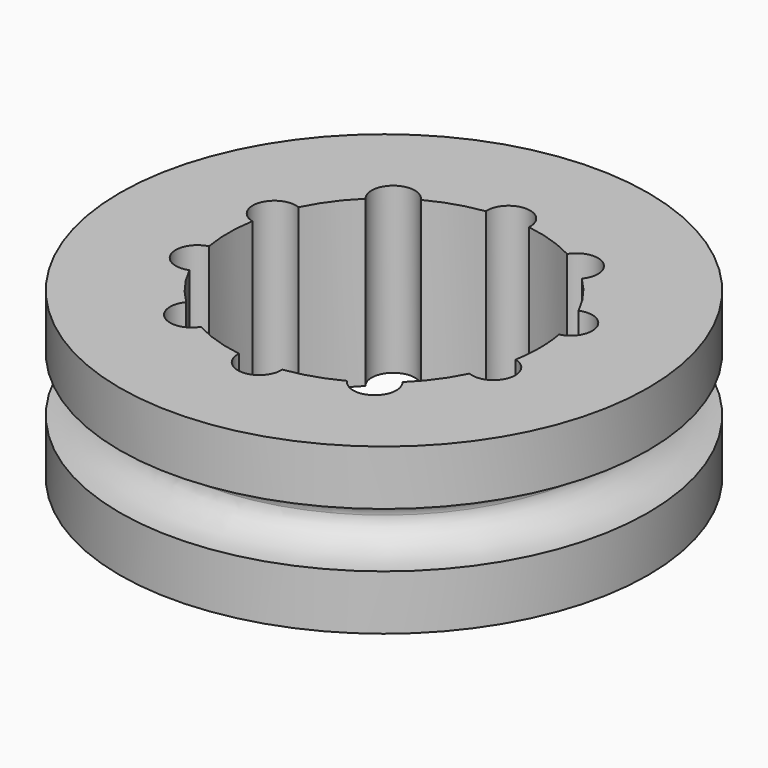
from build123d import *

# Parameters (mm, degrees)
F4_DEPTH = 9.907


with BuildPart() as f1:
    # F0 (on Front) → F1 (revolve)
    with BuildSketch(Plane.XZ):
        Polygon((0, 0), (0, 4.953), (-15.875, 4.953), (-15.875, 1.651), (-13.335, 1.651), (-13.335, 0), align=None)
        with BuildLine():
            Line((-13.335, 1.651), (-15.875, 1.651))
            add(Edge.make_bspline(
                [(-15.875, 1.651), (-14.605, 1.651), (-13.335, 0.8255), (-13.335, 0)],
                knots=[0, 0, 0, 0, 3.0294225522, 3.0294225522, 3.0294225522, 3.0294225522], degree=3))
            Line((-13.335, 0), (-13.335, 1.651))
        make_face()
    revolve(axis=Axis((0, 0, 11.7816049606), (0, 0, 1)))

    # F2: F1 across plane


with BuildPart() as f1_1:
    add(f1.part)
    add(f1.part.mirror(Plane.XY))

    # F3 (on face) → F4 (cut, through all)
    with BuildSketch(Plane.XY.offset(4.953)):
        with BuildLine():
            ThreePointArc((9.2166859434, -1.6310819203), (9.3240277448, -0.8186785842), (9.3599, 0))
            ThreePointArc((9.3599, 0), (9.3240277448, 0.8186785842), (9.2166859434, 1.6310819203))
            ThreePointArc((9.2166859434, 1.6310819203), (7.6654204157, 2.490646073), (8.4151814581, 4.0978590798))
            ThreePointArc((8.4151814581, 4.0978590798), (7.5723181657, 5.5016111829), (6.497729662, 6.7370050653))
            ThreePointArc((6.497729662, 6.7370050653), (4.737490355, 6.520596073), (4.3993636772, 8.2615571925))
            ThreePointArc((4.3993636772, 8.2615571925), (2.8923681657, 8.9017938869), (1.2968614994, 9.2696212577))
            ThreePointArc((1.2968614994, 9.2696212577), (0, 8.0599), (-1.2968614994, 9.2696212577))
            ThreePointArc((-1.2968614994, 9.2696212577), (-2.8923681657, 8.9017938869), (-4.3993636772, 8.2615571925))
            ThreePointArc((-4.3993636772, 8.2615571925), (-4.2520269006, 7.9308416953), (-4.2016111829, 7.5723181657))
            ThreePointArc((-4.2016111829, 7.5723181657), (-5.0571755986, 6.350648402), (-6.497729662, 6.7370050653))
            ThreePointArc((-6.497729662, 6.7370050653), (-7.5723181656, 5.5016111829), (-8.4151814581, 4.0978590798))
            ThreePointArc((-8.4151814581, 4.0978590798), (-7.824158476, 3.6194870839), (-7.6017938869, 2.8923681657))
            ThreePointArc((-7.6017938869, 2.8923681657), (-8.1015938099, 1.8678293246), (-9.2166859434, 1.6310819203))
            ThreePointArc((-9.2166859434, 1.6310819203), (-9.3599, 0), (-9.2166859434, -1.6310819203))
            ThreePointArc((-9.2166859434, -1.6310819203), (-8.1015938099, -1.8678293246), (-7.6017938869, -2.8923681657))
            ThreePointArc((-7.6017938869, -2.8923681657), (-7.824158476, -3.6194870839), (-8.4151814581, -4.0978590798))
            ThreePointArc((-8.4151814581, -4.0978590798), (-7.5723181656, -5.5016111829), (-6.497729662, -6.7370050653))
            ThreePointArc((-6.497729662, -6.7370050653), (-5.0571755986, -6.350648402), (-4.2016111829, -7.5723181657))
            ThreePointArc((-4.2016111829, -7.5723181657), (-4.2520269006, -7.9308416953), (-4.3993636772, -8.2615571925))
            ThreePointArc((-4.3993636772, -8.2615571925), (-2.8923681657, -8.9017938869), (-1.2968614994, -9.2696212577))
            ThreePointArc((-1.2968614994, -9.2696212577), (0, -8.0599), (1.2968614994, -9.2696212577))
            ThreePointArc((1.2968614994, -9.2696212577), (2.8923681657, -8.9017938869), (4.3993636772, -8.2615571925))
            ThreePointArc((4.3993636772, -8.2615571925), (4.737490355, -6.520596073), (6.497729662, -6.7370050653))
            ThreePointArc((6.497729662, -6.7370050653), (7.5723181657, -5.5016111829), (8.4151814581, -4.0978590798))
            ThreePointArc((8.4151814581, -4.0978590798), (7.6654204157, -2.490646073), (9.2166859434, -1.6310819203))
        make_face()
        with BuildLine():
            ThreePointArc((8.4151814581, 4.0978590798), (7.6654204157, 2.490646073), (9.2166859434, 1.6310819203))
            ThreePointArc((9.2166859434, 1.6310819203), (8.9017938869, 2.8923681657), (8.4151814581, 4.0978590798))
        make_face()
        with BuildLine():
            ThreePointArc((8.4151814581, 4.0978590798), (8.9017938869, 2.8923681657), (9.2166859434, 1.6310819203))
            ThreePointArc((9.2166859434, 1.6310819203), (9.9263327279, 2.0921680886), (10.2017938869, 2.8923681657))
            ThreePointArc((10.2017938869, 2.8923681657), (9.6289128051, 3.9700035765), (8.4151814581, 4.0978590798))
        make_face()
        with BuildLine():
            ThreePointArc((10.2017938869, -2.8923681657), (9.9263327279, -2.0921680886), (9.2166859434, -1.6310819203))
            ThreePointArc((9.2166859434, -1.6310819203), (8.9017938869, -2.8923681657), (8.4151814581, -4.0978590798))
            ThreePointArc((8.4151814581, -4.0978590798), (9.6289128051, -3.9700035765), (10.2017938869, -2.8923681657))
        make_face()
        with BuildLine():
            ThreePointArc((8.4151814581, -4.0978590798), (8.9017938869, -2.8923681657), (9.2166859434, -1.6310819203))
            ThreePointArc((9.2166859434, -1.6310819203), (7.6654204157, -2.490646073), (8.4151814581, -4.0978590798))
        make_face()
        with BuildLine():
            ThreePointArc((4.3993636772, 8.2615571925), (4.737490355, 6.520596073), (6.497729662, 6.7370050653))
            ThreePointArc((6.497729662, 6.7370050653), (5.5016111829, 7.5723181657), (4.3993636772, 8.2615571925))
        make_face()
        with BuildLine():
            ThreePointArc((4.3993636772, 8.2615571925), (5.5016111829, 7.5723181657), (6.497729662, 6.7370050653))
            ThreePointArc((6.497729662, 6.7370050653), (6.7232809466, 7.1278825813), (6.8016111829, 7.5723181657))
            ThreePointArc((6.8016111829, 7.5723181657), (5.8601347126, 8.821902448), (4.3993636772, 8.2615571925))
        make_face()
        with BuildLine():
            ThreePointArc((6.8016111829, -7.5723181657), (6.7232809466, -7.1278825813), (6.497729662, -6.7370050653))
            ThreePointArc((6.497729662, -6.7370050653), (5.5016111829, -7.5723181657), (4.3993636772, -8.2615571925))
            ThreePointArc((4.3993636772, -8.2615571925), (5.8601347126, -8.821902448), (6.8016111829, -7.5723181657))
        make_face()
        with BuildLine():
            ThreePointArc((4.3993636772, -8.2615571925), (5.5016111829, -7.5723181657), (6.497729662, -6.7370050653))
            ThreePointArc((6.497729662, -6.7370050653), (4.737490355, -6.520596073), (4.3993636772, -8.2615571925))
        make_face()
        with BuildLine():
            ThreePointArc((-1.2968614994, 9.2696212577), (0, 8.0599), (1.2968614994, 9.2696212577))
            ThreePointArc((1.2968614994, 9.2696212577), (0, 9.3599), (-1.2968614994, 9.2696212577))
        make_face()
        with BuildLine():
            ThreePointArc((-1.2968614994, 9.2696212577), (0, 9.3599), (1.2968614994, 9.2696212577))
            ThreePointArc((1.2968614994, 9.2696212577), (1.2992151379, 9.3147333599), (1.3, 9.3599))
            ThreePointArc((1.3, 9.3599), (-0.0451666401, 10.6591151379), (-1.2968614994, 9.2696212577))
        make_face()
        with BuildLine():
            ThreePointArc((1.3, -9.3599), (1.2992151379, -9.3147333599), (1.2968614994, -9.2696212577))
            ThreePointArc((1.2968614994, -9.2696212577), (0, -9.3599), (-1.2968614994, -9.2696212577))
            ThreePointArc((-1.2968614994, -9.2696212577), (-0.0451666401, -10.6591151379), (1.3, -9.3599))
        make_face()
        with BuildLine():
            ThreePointArc((-1.2968614994, -9.2696212577), (0, -9.3599), (1.2968614994, -9.2696212577))
            ThreePointArc((1.2968614994, -9.2696212577), (0, -8.0599), (-1.2968614994, -9.2696212577))
        make_face()
        with BuildLine():
            ThreePointArc((-4.2016111829, 7.5723181657), (-4.2520269006, 7.9308416953), (-4.3993636772, 8.2615571925))
            ThreePointArc((-4.3993636772, 8.2615571925), (-5.5016111829, 7.5723181657), (-6.497729662, 6.7370050653))
            ThreePointArc((-6.497729662, 6.7370050653), (-5.0571755986, 6.350648402), (-4.2016111829, 7.5723181657))
        make_face()
        with BuildLine():
            ThreePointArc((-6.497729662, 6.7370050653), (-5.5016111829, 7.5723181657), (-4.3993636772, 8.2615571925))
            ThreePointArc((-4.3993636772, 8.2615571925), (-6.2657320109, 8.6240402583), (-6.497729662, 6.7370050653))
        make_face()
        with BuildLine():
            ThreePointArc((-6.497729662, -6.7370050653), (-6.2657320109, -8.6240402583), (-4.3993636772, -8.2615571925))
            ThreePointArc((-4.3993636772, -8.2615571925), (-5.5016111829, -7.5723181657), (-6.497729662, -6.7370050653))
        make_face()
        with BuildLine():
            ThreePointArc((-6.497729662, -6.7370050653), (-5.5016111829, -7.5723181657), (-4.3993636772, -8.2615571925))
            ThreePointArc((-4.3993636772, -8.2615571925), (-4.2520269006, -7.9308416953), (-4.2016111829, -7.5723181657))
            ThreePointArc((-4.2016111829, -7.5723181657), (-5.0571755986, -6.350648402), (-6.497729662, -6.7370050653))
        make_face()
        with BuildLine():
            ThreePointArc((-7.6017938869, 2.8923681657), (-7.824158476, 3.6194870839), (-8.4151814581, 4.0978590798))
            ThreePointArc((-8.4151814581, 4.0978590798), (-8.9017938869, 2.8923681657), (-9.2166859434, 1.6310819203))
            ThreePointArc((-9.2166859434, 1.6310819203), (-8.1015938099, 1.8678293246), (-7.6017938869, 2.8923681657))
        make_face()
        with BuildLine():
            ThreePointArc((-9.2166859434, 1.6310819203), (-8.9017938869, 2.8923681657), (-8.4151814581, 4.0978590798))
            ThreePointArc((-8.4151814581, 4.0978590798), (-10.1381673581, 3.2940902583), (-9.2166859434, 1.6310819203))
        make_face()
        with BuildLine():
            ThreePointArc((-9.2166859434, -1.6310819203), (-10.1381673581, -3.2940902583), (-8.4151814581, -4.0978590798))
            ThreePointArc((-8.4151814581, -4.0978590798), (-8.9017938869, -2.8923681657), (-9.2166859434, -1.6310819203))
        make_face()
        with BuildLine():
            ThreePointArc((-9.2166859434, -1.6310819203), (-8.9017938869, -2.8923681657), (-8.4151814581, -4.0978590798))
            ThreePointArc((-8.4151814581, -4.0978590798), (-7.824158476, -3.6194870839), (-7.6017938869, -2.8923681657))
            ThreePointArc((-7.6017938869, -2.8923681657), (-8.1015938099, -1.8678293246), (-9.2166859434, -1.6310819203))
        make_face()
    extrude(amount=-F4_DEPTH, mode=Mode.SUBTRACT)


solid = f1_1.part
